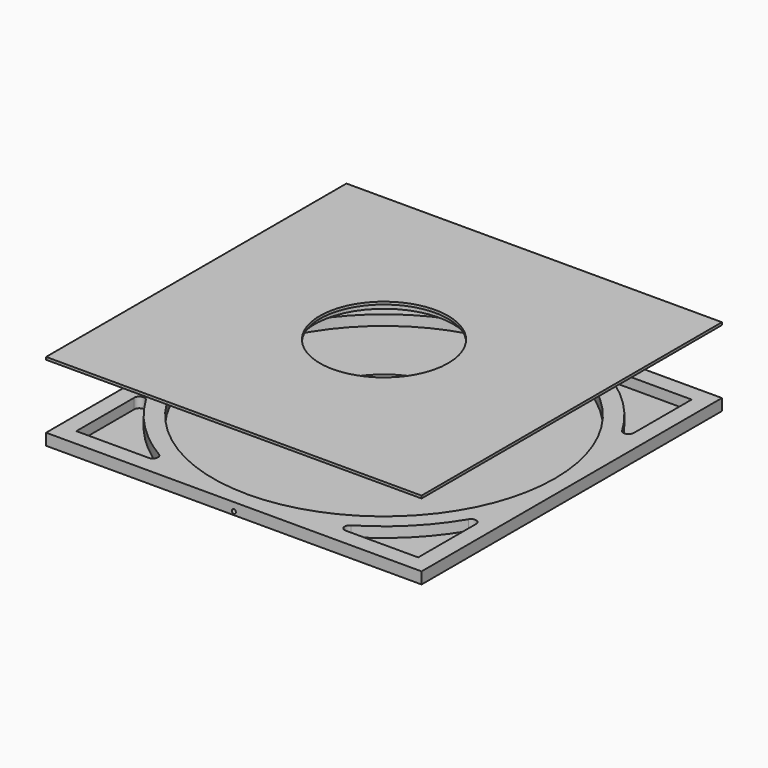
from build123d import *

# Parameters (mm, degrees)
F0_W      = 146.3
F0_H      = 146.3
F0_R      = 25
F1_DEPTH  = 0.5
F2_W      = 146.3
F2_H      = 146.3
F2_R      = 66.6
F3_DEPTH  = 4
F2_R_2    = 27
F2_R_3    = 25
F4_DEPTH  = 4
F5_R      = 0.8
F6_DEPTH  = 73.151
F8_W      = 146.3
F8_H      = 146.3
F8_R      = 66.6
F8_R_2    = 27
F9_DEPTH  = 1
F10_DEPTH = 2.5
F11_DEPTH = 3
F12_R     = 27
F12_R_2   = 25
F13_DEPTH = 1


with BuildPart() as f1:
    # F0 (on Top) → F1 (new body)
    with BuildSketch(Plane.XY):
        Rectangle(F0_W, F0_H)
        Circle(F0_R, mode=Mode.SUBTRACT)
    extrude(amount=F1_DEPTH)

    # F2 (on face) → F3 (join)
    with BuildSketch(Plane.XY.offset(0.5)):
        Rectangle(F2_W, F2_H)
        with BuildLine():
            ThreePointArc((-37.375541, -62.880772), (-36.468898, -65.129879), (-38.397428, -66.6))
            Line((-38.397428, -66.6), (-66.6, -66.6))
            Line((-66.6, -66.6), (-66.6, -38.397428))
            ThreePointArc((-66.6, -38.397428), (-65.129879, -36.468898), (-62.880772, -37.375541))
            ThreePointArc((-62.880772, -37.375541), (-51.724861, -51.724861), (-37.375541, -62.880772))
        make_face(mode=Mode.SUBTRACT)
        with BuildLine():
            ThreePointArc((62.880772, -37.375541), (65.129879, -36.468898), (66.6, -38.397428))
            Line((66.6, -38.397428), (66.6, -66.6))
            Line((66.6, -66.6), (38.397428, -66.6))
            ThreePointArc((38.397428, -66.6), (36.468898, -65.129879), (37.375541, -62.880772))
            ThreePointArc((37.375541, -62.880772), (51.724861, -51.724861), (62.880772, -37.375541))
        make_face(mode=Mode.SUBTRACT)
        with BuildLine():
            ThreePointArc((-38.397428, 66.6), (-36.468898, 65.129879), (-37.375541, 62.880772))
            ThreePointArc((-37.375541, 62.880772), (-51.724861, 51.724861), (-62.880772, 37.375541))
            ThreePointArc((-62.880772, 37.375541), (-65.129879, 36.468898), (-66.6, 38.397428))
            Line((-66.6, 38.397428), (-66.6, 66.6))
            Line((-66.6, 66.6), (-38.397428, 66.6))
        make_face(mode=Mode.SUBTRACT)
        Circle(F2_R, mode=Mode.SUBTRACT)
        with BuildLine():
            ThreePointArc((37.375541, 62.880772), (36.468898, 65.129879), (38.397428, 66.6))
            Line((38.397428, 66.6), (66.6, 66.6))
            Line((66.6, 66.6), (66.6, 38.397428))
            ThreePointArc((66.6, 38.397428), (65.129879, 36.468898), (62.880772, 37.375541))
            ThreePointArc((62.880772, 37.375541), (51.724861, 51.724861), (37.375541, 62.880772))
        make_face(mode=Mode.SUBTRACT)
    extrude(amount=F3_DEPTH)

    # F2 (on face) → F4 (join)
    with BuildSketch(Plane.XY.offset(0.5)):
        Circle(F2_R_2)
        Circle(F2_R_3, mode=Mode.SUBTRACT)
    extrude(amount=F4_DEPTH)

    # F5 (on Front) → F6 (cut, through all)
    with BuildSketch(Plane.XZ):
        with Locations((0, 1.3)):
            Circle(F5_R)
    extrude(amount=F6_DEPTH, mode=Mode.SUBTRACT)


with BuildPart() as f9:
    # F8 (on offset) → F9 (new body)
    with BuildSketch(Plane.XY.offset(29.5)):
        Rectangle(F8_W, F8_H)
        with BuildLine():
            ThreePointArc((-58.510577, -43.902561), (-51.724861, -51.724861), (-43.902561, -58.510577))
            ThreePointArc((-43.902561, -58.510577), (-42.336347, -63.527281), (-46.6, -66.6))
            Line((-46.6, -66.6), (-66.6, -66.6))
            Line((-66.6, -66.6), (-66.6, -46.6))
            ThreePointArc((-66.6, -46.6), (-63.527281, -42.336347), (-58.510577, -43.902561))
        make_face(mode=Mode.SUBTRACT)
        with BuildLine():
            ThreePointArc((43.902561, -58.510577), (51.724861, -51.724861), (58.510577, -43.902561))
            ThreePointArc((58.510577, -43.902561), (63.527281, -42.336347), (66.6, -46.6))
            Line((66.6, -46.6), (66.6, -66.6))
            Line((66.6, -66.6), (46.6, -66.6))
            ThreePointArc((46.6, -66.6), (42.336347, -63.527281), (43.902561, -58.510577))
        make_face(mode=Mode.SUBTRACT)
        with BuildLine():
            Line((-66.6, 66.6), (-46.6, 66.6))
            ThreePointArc((-46.6, 66.6), (-42.336347, 63.527281), (-43.902561, 58.510577))
            ThreePointArc((-43.902561, 58.510577), (-51.724861, 51.724861), (-58.510577, 43.902561))
            ThreePointArc((-58.510577, 43.902561), (-63.527281, 42.336347), (-66.6, 46.6))
            Line((-66.6, 46.6), (-66.6, 66.6))
        make_face(mode=Mode.SUBTRACT)
        Circle(F8_R, mode=Mode.SUBTRACT)
        with BuildLine():
            ThreePointArc((58.510577, 43.902561), (51.724861, 51.724861), (43.902561, 58.510577))
            ThreePointArc((43.902561, 58.510577), (42.336347, 63.527281), (46.6, 66.6))
            Line((46.6, 66.6), (66.6, 66.6))
            Line((66.6, 66.6), (66.6, 46.6))
            ThreePointArc((66.6, 46.6), (63.527281, 42.336347), (58.510577, 43.902561))
        make_face(mode=Mode.SUBTRACT)
        with BuildLine():
            ThreePointArc((-43.902561, 58.510577), (-42.336347, 63.527281), (-46.6, 66.6))
            Line((-46.6, 66.6), (-66.6, 66.6))
            Line((-66.6, 66.6), (-66.6, 46.6))
            ThreePointArc((-66.6, 46.6), (-63.527281, 42.336347), (-58.510577, 43.902561))
            ThreePointArc((-58.510577, 43.902561), (-51.724861, 51.724861), (-43.902561, 58.510577))
        make_face()
        with BuildLine():
            ThreePointArc((46.6, 66.6), (42.336347, 63.527281), (43.902561, 58.510577))
            ThreePointArc((43.902561, 58.510577), (51.724861, 51.724861), (58.510577, 43.902561))
            ThreePointArc((58.510577, 43.902561), (63.527281, 42.336347), (66.6, 46.6))
            Line((66.6, 46.6), (66.6, 66.6))
            Line((66.6, 66.6), (46.6, 66.6))
        make_face()
        with BuildLine():
            ThreePointArc((66.6, -46.6), (63.527281, -42.336347), (58.510577, -43.902561))
            ThreePointArc((58.510577, -43.902561), (51.724861, -51.724861), (43.902561, -58.510577))
            ThreePointArc((43.902561, -58.510577), (42.336347, -63.527281), (46.6, -66.6))
            Line((46.6, -66.6), (66.6, -66.6))
            Line((66.6, -66.6), (66.6, -46.6))
        make_face()
        with BuildLine():
            ThreePointArc((-46.6, -66.6), (-42.336347, -63.527281), (-43.902561, -58.510577))
            ThreePointArc((-43.902561, -58.510577), (-51.724861, -51.724861), (-58.510577, -43.902561))
            ThreePointArc((-58.510577, -43.902561), (-63.527281, -42.336347), (-66.6, -46.6))
            Line((-66.6, -46.6), (-66.6, -66.6))
            Line((-66.6, -66.6), (-46.6, -66.6))
        make_face()
        Circle(F8_R)
        Circle(F8_R_2, mode=Mode.SUBTRACT)
    extrude(amount=F9_DEPTH)

    # F8 (on offset) → F10 (join)
    with BuildSketch(Plane.XY.offset(29.5)):
        Circle(F8_R)
        Circle(F8_R_2, mode=Mode.SUBTRACT)
    extrude(amount=-F10_DEPTH)

    # F8 (on offset) → F11 (join)
    with BuildSketch(Plane.XY.offset(29.5)):
        with BuildLine():
            ThreePointArc((-46.6, -66.6), (-42.336347, -63.527281), (-43.902561, -58.510577))
            ThreePointArc((-43.902561, -58.510577), (-51.724861, -51.724861), (-58.510577, -43.902561))
            ThreePointArc((-58.510577, -43.902561), (-63.527281, -42.336347), (-66.6, -46.6))
            Line((-66.6, -46.6), (-66.6, -66.6))
            Line((-66.6, -66.6), (-46.6, -66.6))
        make_face()
        with BuildLine():
            ThreePointArc((66.6, -46.6), (63.527281, -42.336347), (58.510577, -43.902561))
            ThreePointArc((58.510577, -43.902561), (51.724861, -51.724861), (43.902561, -58.510577))
            ThreePointArc((43.902561, -58.510577), (42.336347, -63.527281), (46.6, -66.6))
            Line((46.6, -66.6), (66.6, -66.6))
            Line((66.6, -66.6), (66.6, -46.6))
        make_face()
        with BuildLine():
            ThreePointArc((-43.902561, 58.510577), (-42.336347, 63.527281), (-46.6, 66.6))
            Line((-46.6, 66.6), (-66.6, 66.6))
            Line((-66.6, 66.6), (-66.6, 46.6))
            ThreePointArc((-66.6, 46.6), (-63.527281, 42.336347), (-58.510577, 43.902561))
            ThreePointArc((-58.510577, 43.902561), (-51.724861, 51.724861), (-43.902561, 58.510577))
        make_face()
        with BuildLine():
            ThreePointArc((46.6, 66.6), (42.336347, 63.527281), (43.902561, 58.510577))
            ThreePointArc((43.902561, 58.510577), (51.724861, 51.724861), (58.510577, 43.902561))
            ThreePointArc((58.510577, 43.902561), (63.527281, 42.336347), (66.6, 46.6))
            Line((66.6, 46.6), (66.6, 66.6))
            Line((66.6, 66.6), (46.6, 66.6))
        make_face()
    extrude(amount=-F11_DEPTH)

    # F12 (on face) → F13 (join)
    with BuildSketch(Plane.XY.offset(30.5)):
        Circle(F12_R)
        Circle(F12_R_2, mode=Mode.SUBTRACT)
    extrude(amount=-F13_DEPTH)


solid = Compound([f1.part, f9.part])
